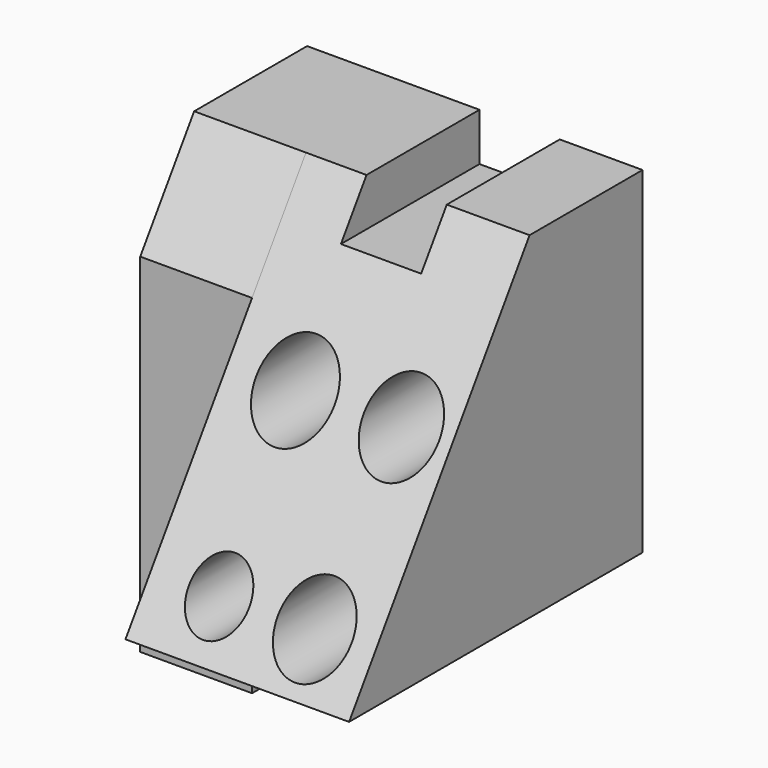
from build123d import *

# Parameters (mm, degrees)
F1_DEPTH = 50.8
F2_W     = 18.229121
F2_H     = 10.856584
F3_DEPTH = 63.5
F4_R     = 8.548371
F4_R_2   = 8.901735
F4_R_3   = 6.849237
F4_R_4   = 8.384756
F5_DEPTH = 109.474
F7_DEPTH = 25.4
F9_DEPTH = 25.4


with BuildPart() as f1:
    # F0 (on Right) → F1 (new body)
    with BuildSketch(Plane.YZ):
        Polygon((-46.180889, -24.980081), (37.1475, -24.980081), (37.1475, 51.52718), (5.069758, 51.52718), align=None)
    extrude(amount=F1_DEPTH)

    # F2 (on face) → F3 (cut)
    with BuildSketch(Plane(origin=(0, 37.1475, 0), x_dir=(-1, 0, 0), z_dir=(0, 1, 0))):
        with Locations((-22.876179, 46.098888)):
            Rectangle(F2_W, F2_H)
    extrude(amount=-F3_DEPTH, mode=Mode.SUBTRACT)

    # F4 (on face) → F5 (cut)
    with BuildSketch(Plane(origin=(0, 37.1475, 0), x_dir=(-1, 0, 0), z_dir=(0, 1, 0))):
        with Locations((-39.41891, 18.436231)):
            Circle(F4_R)
        with Locations((-15.524367, 18.102858)):
            Circle(F4_R_2)
        with Locations((-15.524367, -14.255895)):
            Circle(F4_R_3)
        with Locations((-37.082806, -13.922811)):
            Circle(F4_R_4)
    extrude(amount=-F5_DEPTH, mode=Mode.SUBTRACT)

    # F6 (on face) → F7 (join)
    with BuildSketch(Plane(origin=(0, 0, 0), x_dir=(0, -1, 0), z_dir=(-1, 0, 0))):
        Polygon((-5.069758, 51.52718), (-37.1475, 51.52718), (-37.1475, -24.980081), (10.234666, -24.980081), (10.234666, 28.680648), align=None)
    extrude(amount=F7_DEPTH)

    # F8 (on face) → F9 (join)
    with BuildSketch(Plane(origin=(0, 0, -24.980081), x_dir=(1, 0, 0), z_dir=(0, 0, -1))):
        Polygon((-25.4, 10.234666), (-25.4, -2.907777), (0, -2.907777), (0, 10.234666), (-21.744397, 10.234666), align=None)
    extrude(amount=F9_DEPTH)


solid = f1.part
